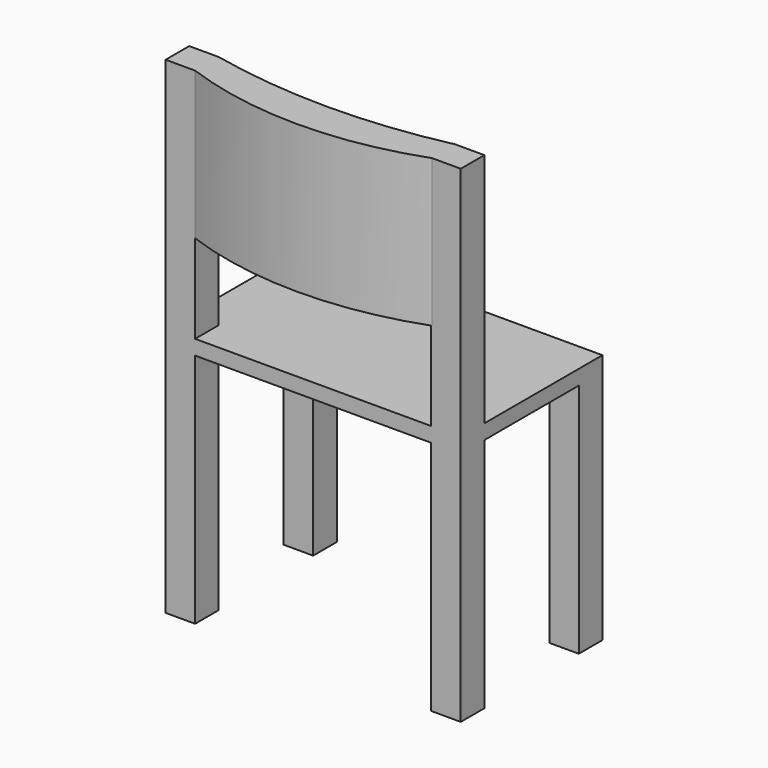
from build123d import *

# Parameters (mm, degrees)
F0_W     = 500
F0_H     = 300
F1_DEPTH = 25
F2_W     = 50
F2_H     = 50
F3_DEPTH = 400
F4_W     = 50
F4_H     = 50
F5_DEPTH = 400
F7_DEPTH = 250


with BuildPart() as f1:
    # F0 (on Top) → F1 (new body)
    with BuildSketch(Plane.XY):
        with Locations((-45.115738, -73.622181)):
            Rectangle(F0_W, F0_H)
    extrude(amount=F1_DEPTH)

    # F2 (on face) → F3 (join)
    with BuildSketch(Plane(origin=(0, 0, 0), x_dir=(1, 0, 0), z_dir=(0, 0, -1))):
        with Locations((179.884262, -51.377819)):
            Rectangle(F2_W, F2_H)
        with Locations((179.884262, 198.622181)):
            Rectangle(F2_W, F2_H)
        with Locations((-270.115738, -51.377819)):
            Rectangle(F2_W, F2_H)
        with Locations((-270.115738, 198.622181)):
            Rectangle(F2_W, F2_H)
    extrude(amount=F3_DEPTH)

    # F4 (on face) → F5 (join)
    with BuildSketch(Plane.XY.offset(25)):
        with Locations((179.884262, -198.622181)):
            Rectangle(F4_W, F4_H)
        with Locations((-270.115738, -198.622181)):
            Rectangle(F4_W, F4_H)
    extrude(amount=F5_DEPTH)

    # F6 (on face) → F7 (join)
    with BuildSketch(Plane.XY.offset(425)):
        with BuildLine():
            Line((-245.115738, -173.622181), (-245.115738, -223.622181))
            ThreePointArc((-245.115738, -223.622181), (-44.389514, -258.960982), (156.33671, -223.622181))
            Line((156.33671, -223.622181), (155.415639, -173.622181))
            ThreePointArc((155.415639, -173.622181), (-44.850049, -195.2512), (-245.115738, -173.622181))
        make_face()
    extrude(amount=-F7_DEPTH)


solid = f1.part
